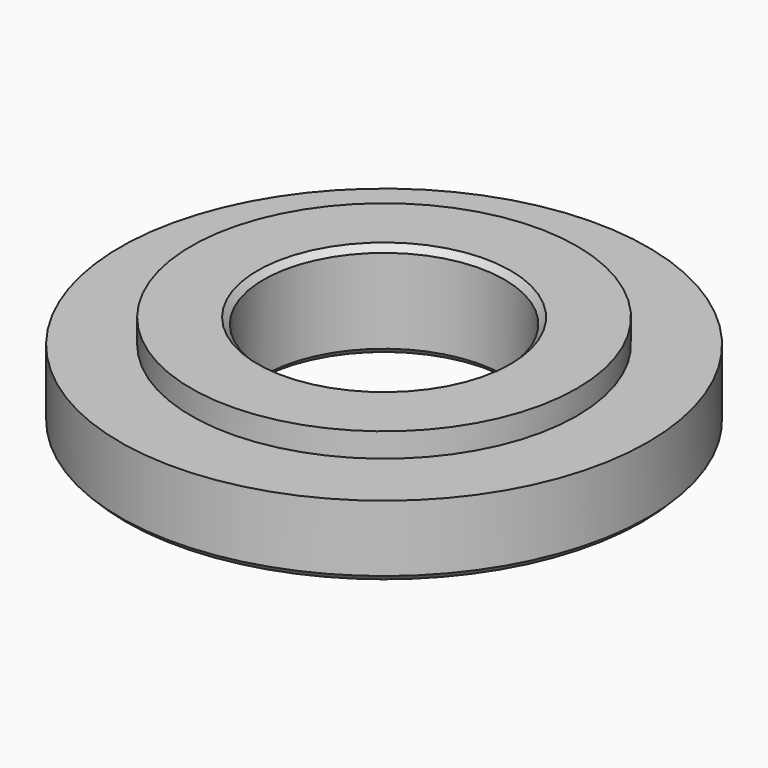
from build123d import *

# Parameters (mm, degrees)
SKETCH017_R     = 10.95
SKETCH017_R_2   = 5
PAD007_DEPTH    = 4
CHAMFER_SIZE    = 0.25
SKETCH023_R     = 10.95
SKETCH023_R_2   = 8
POCKET009_DEPTH = 1


with BuildPart() as part:
    # Sketch017 → Pad007 (new body)
    with BuildSketch(Plane.XY):
        Circle(SKETCH017_R)
        Circle(SKETCH017_R_2, mode=Mode.SUBTRACT)
    extrude(amount=PAD007_DEPTH)

    # Chamfer
    chamfer_edges = [part.edges().sort_by_distance(p)[0] for p in [
        (-10.95, 0, 4),
        (-5, 0, 4),
        (-10.95, 0, 0),
        (-5, 0, 0),
    ]]
    chamfer(chamfer_edges, length=CHAMFER_SIZE)

    # Sketch023 (on Face4 of Pad007) → Pocket009 (cut)
    with BuildSketch(Plane.XY.offset(4)):
        Circle(SKETCH023_R)
        Circle(SKETCH023_R_2, mode=Mode.SUBTRACT)
    extrude(amount=-POCKET009_DEPTH, mode=Mode.SUBTRACT)


solid = part.part
